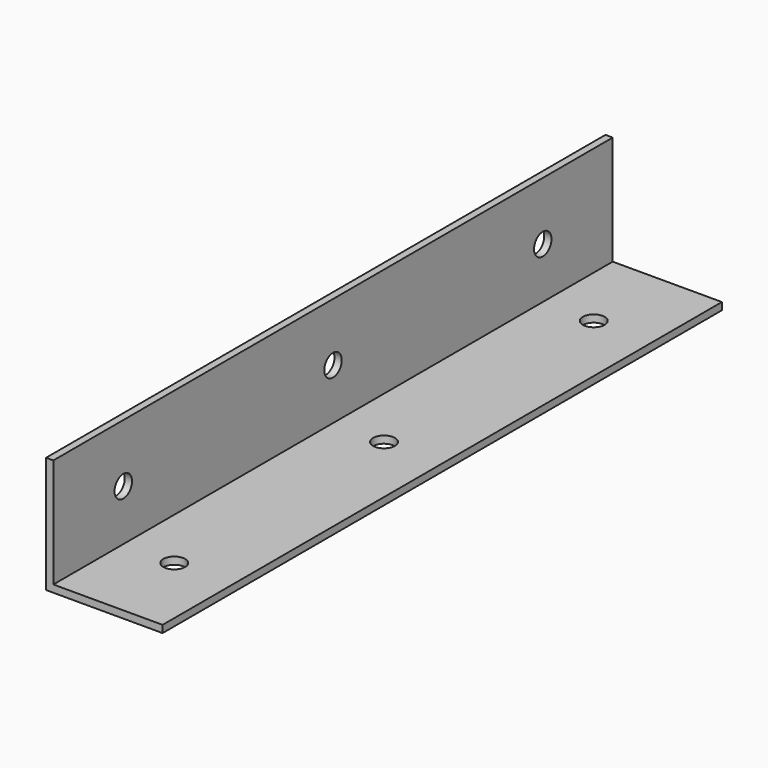
from build123d import *

# Parameters (mm, degrees)
F1_DEPTH = 609.6
F2_R     = 9.525
F3_DEPTH = 25.4
F4_R     = 9.525
F5_DEPTH = 25.4


with BuildPart() as f1:
    # F0 (on Front) → F1 (new body)
    with BuildSketch(Plane.XZ):
        Polygon((0, 101.6), (0, 0), (101.6, 0), (101.6, 6.35), (6.35, 6.35), (6.35, 101.6), align=None)
    extrude(amount=-F1_DEPTH)

    # F2 (on face) → F3 (cut)
    with BuildSketch(Plane(origin=(0, 0, 0), x_dir=(0, -1, 0), z_dir=(-1, 0, 0))):
        with Locations((-533.4, 50.8)):
            Circle(F2_R)
        with Locations((-304.8, 50.8)):
            Circle(F2_R)
        with Locations((-76.2, 50.8)):
            Circle(F2_R)
    extrude(amount=-F3_DEPTH, mode=Mode.SUBTRACT)

    # F4 (on face) → F5 (cut)
    with BuildSketch(Plane(origin=(0, 0, 0), x_dir=(1, 0, 0), z_dir=(0, 0, -1))):
        with Locations((50.8, -533.4)):
            Circle(F4_R)
        with Locations((50.8, -304.8)):
            Circle(F4_R)
        with Locations((50.8, -76.2)):
            Circle(F4_R)
    extrude(amount=-F5_DEPTH, mode=Mode.SUBTRACT)


solid = f1.part
